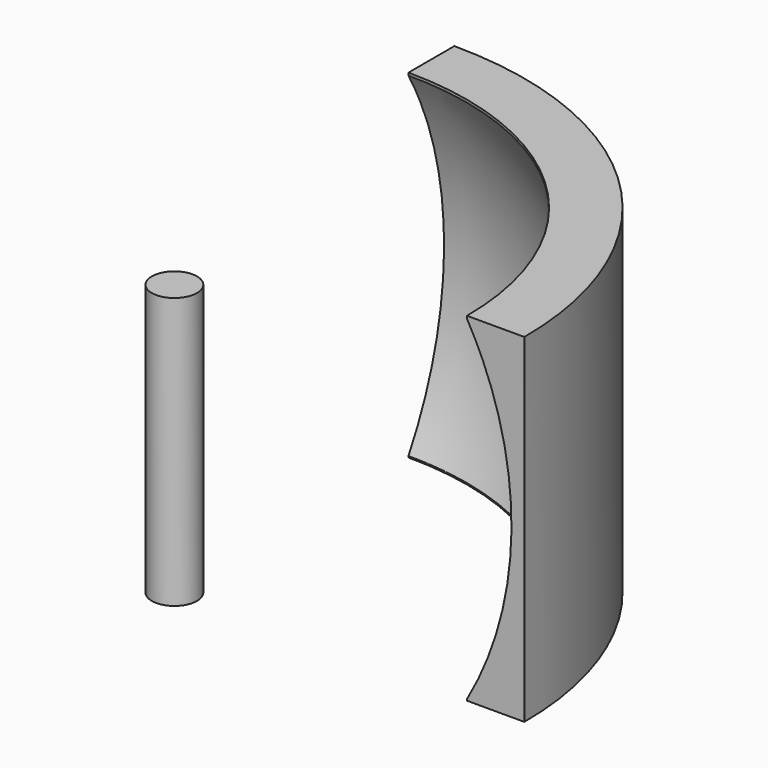
from build123d import *

# Parameters (mm, degrees)
CYLINDER011_R               = 2
CYLINDER011_DEPTH           = 24
CYLINDER011_ROLL_ANGLE      = -25.142505
CYLINDER011_PITCH_ANGLE     = 89.880709
CYLINDER011_PLACEMENT_ANGLE = 25.142505
BASEFEATURE_ROLL_ANGLE      = 89.859615
BASEFEATURE_PITCH_ANGLE     = -39.714859
BASEFEATURE_PLACEMENT_ANGLE = -89.859615
PAD_DEPTH                   = 30


with BuildPart() as part:
    # Cylinder011 → Cylinder011 (new body)
    with BuildSketch(Plane.XY):
        Circle(CYLINDER011_R)
    extrude(amount=CYLINDER011_DEPTH)


with BuildPart() as part_1:
    # Cylinder011 roll: moved
    add(part.part.rotate(Axis((0, 0, 0), (1, 0, 0)), CYLINDER011_ROLL_ANGLE))


with BuildPart() as part_2:
    # Cylinder011 pitch: moved
    add(part_1.part.rotate(Axis((0, 0, 0), (0, 1, 0)), CYLINDER011_PITCH_ANGLE))


with BuildPart() as part_3:
    # Cylinder011 placement: moved
    add(part_2.part.moved(Location((21.03, 20.35, 4))).rotate(Axis((21.03, 20.35, 4), (0, 0, 1)), CYLINDER011_PLACEMENT_ANGLE))


with BuildPart() as part_4:
    # BaseFeature roll: moved
    add(part_3.part.rotate(Axis((0, 0, 0), (1, 0, 0)), BASEFEATURE_ROLL_ANGLE))


with BuildPart() as part_5:
    # BaseFeature pitch: moved
    add(part_4.part.rotate(Axis((0, 0, 0), (0, 1, 0)), BASEFEATURE_PITCH_ANGLE))


with BuildPart() as part_6:
    # BaseFeature placement: moved
    add(part_5.part.moved(Location((3.942353, 3.177449, -29.098884))).rotate(Axis((3.942353, 3.177449, -29.098884), (0, 0, 1)), BASEFEATURE_PLACEMENT_ANGLE))

    # Sketch (on XY_Plane of Origin) → Pad (new body)
    with BuildSketch(Plane.XY):
        with BuildLine():
            ThreePointArc((25.9, 8e-06), (18.314063, 18.314069), (0, 25.9))
            Line((0, 25.9), (0, 30.9))
            Line((0, 30.9), (0, 30.98))
            ThreePointArc((30.98, 0), (21.906168, 21.906168), (0, 30.98))
            Line((30.9, 0), (30.98, 0))
            Line((25.9, 8e-06), (30.9, 0))
        make_face()
    extrude(amount=PAD_DEPTH)

    # Sketch001 (on XZ_Plane of Origin) → Groove (revolve, cut)
    with BuildSketch(Plane.XZ):
        with BuildLine():
            ThreePointArc((25.828939, 0), (29.840979, 14.944895), (25.828939, 29.88979))
            Line((25.828939, 29.88979), (25.828939, 0))
        make_face()
    revolve(axis=Axis((0, 0, 0), (0, 0, 1)), mode=Mode.SUBTRACT)


solid = part_6.part
